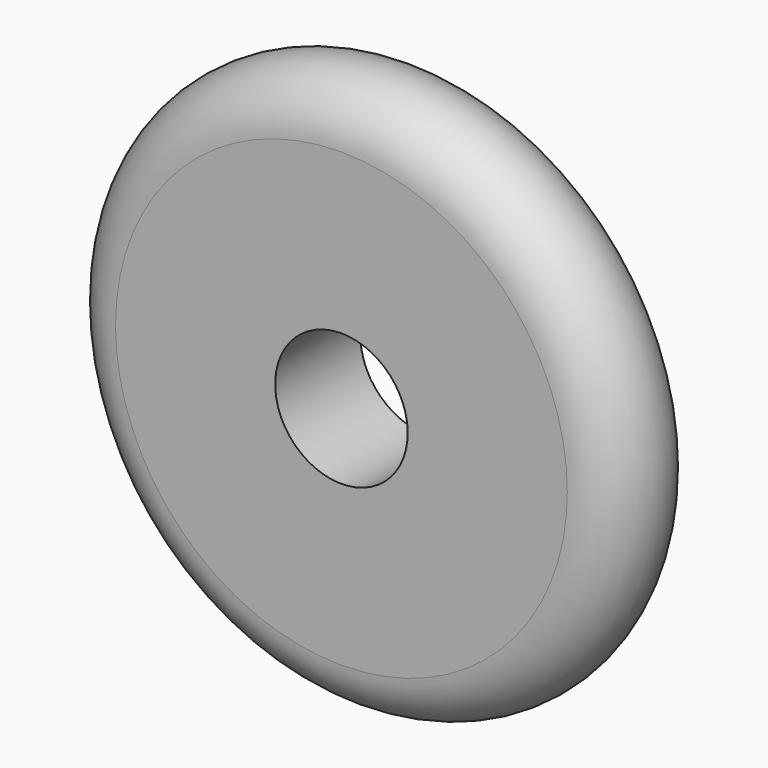
from build123d import *


with BuildPart() as f1:
    # F0 (on Top) → F1 (revolve)
    with BuildSketch(Plane.XY):
        with BuildLine():
            Line((0, 50.8), (0, 0))
            Line((0, 0), (76.2, 0))
            ThreePointArc((76.2, 0), (101.6, 25.4), (76.2, 50.8))
            Line((76.2, 50.8), (0, 50.8))
        make_face()
    revolve(axis=Axis((-31.634551, 25.4, 0), (0, 1, 0)))


solid = f1.part
